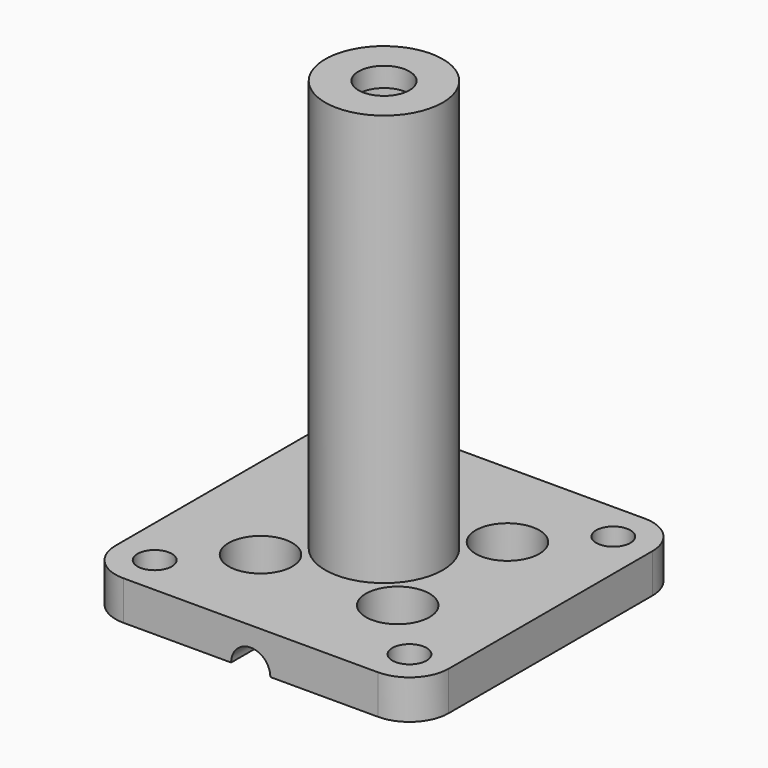
from build123d import *

# Parameters (mm, degrees)
F0_R      = 1.75
F0_R_2    = 3.25
F1_DEPTH  = 4
F2_R      = 2
F3_DEPTH  = 34
F5_R      = 6
F6_DEPTH  = 40
F7_R      = 4
F8_DEPTH  = 40
F10_R     = 6
F10_R_2   = 2.6
F11_DEPTH = 2
F12_W     = 8.5
F12_H     = 2
F13_DEPTH = 10


with BuildPart() as f1:
    # F0 (on Top) → F1 (new body)
    with BuildSketch(Plane.XY):
        with BuildLine():
            ThreePointArc((-17, -13), (-15.828427, -15.828427), (-13, -17))
            Line((-13, -17), (13, -17))
            ThreePointArc((13, -17), (15.828427, -15.828427), (17, -13))
            Line((17, -13), (17, 13))
            ThreePointArc((17, 13), (15.828427, 15.828427), (13, 17))
            Line((13, 17), (-13, 17))
            ThreePointArc((-13, 17), (-15.828427, 15.828427), (-17, 13))
            Line((-17, 13), (-17, -13))
        make_face()
        with Locations((-13, -13)):
            Circle(F0_R, mode=Mode.SUBTRACT)
        with Locations((-7, -7)):
            Circle(F0_R_2, mode=Mode.SUBTRACT)
        with Locations((13, -13)):
            Circle(F0_R, mode=Mode.SUBTRACT)
        with Locations((7, -7)):
            Circle(F0_R_2, mode=Mode.SUBTRACT)
        with Locations((-7, 7)):
            Circle(F0_R_2, mode=Mode.SUBTRACT)
        with Locations((-13, 13)):
            Circle(F0_R, mode=Mode.SUBTRACT)
        with Locations((7, 7)):
            Circle(F0_R_2, mode=Mode.SUBTRACT)
        with Locations((13, 13)):
            Circle(F0_R, mode=Mode.SUBTRACT)
    extrude(amount=F1_DEPTH)


with BuildPart() as f3:
    # F2 (on face) → F3 (new body)
    with BuildSketch(Plane.XZ.offset(17)):
        Circle(F2_R)
    extrude(amount=-F3_DEPTH)


with BuildPart() as f1_1:
    add(f1.part)

    # F4: cut F3
    add(f3.part, mode=Mode.SUBTRACT)

    # F5 (on face) → F6 (join)
    with BuildSketch(Plane.XY.offset(4)):
        Circle(F5_R)
    extrude(amount=F6_DEPTH)


with BuildPart() as f8:
    # F7 (on face) → F8 (new body)
    with BuildSketch(Plane.XY.offset(44)):
        Circle(F7_R)
    extrude(amount=-F8_DEPTH)


with BuildPart() as f1_2:
    add(f1_1.part)

    # F9: cut F8
    add(f8.part, mode=Mode.SUBTRACT)

    # F10 (on face) → F11 (join)
    with BuildSketch(Plane.XY.offset(44)):
        Circle(F10_R)
        Circle(F10_R_2, mode=Mode.SUBTRACT)
    extrude(amount=F11_DEPTH)


with BuildPart() as f13:
    # F12 (on face) → F13 (new body)
    with BuildSketch(Plane.XY.offset(4)):
        Rectangle(F12_W, F12_H)
    extrude(amount=-F13_DEPTH)


with BuildPart() as f1_3:
    add(f1_2.part)

    # F14: cut F13
    add(f13.part, mode=Mode.SUBTRACT)


solid = f1_3.part
